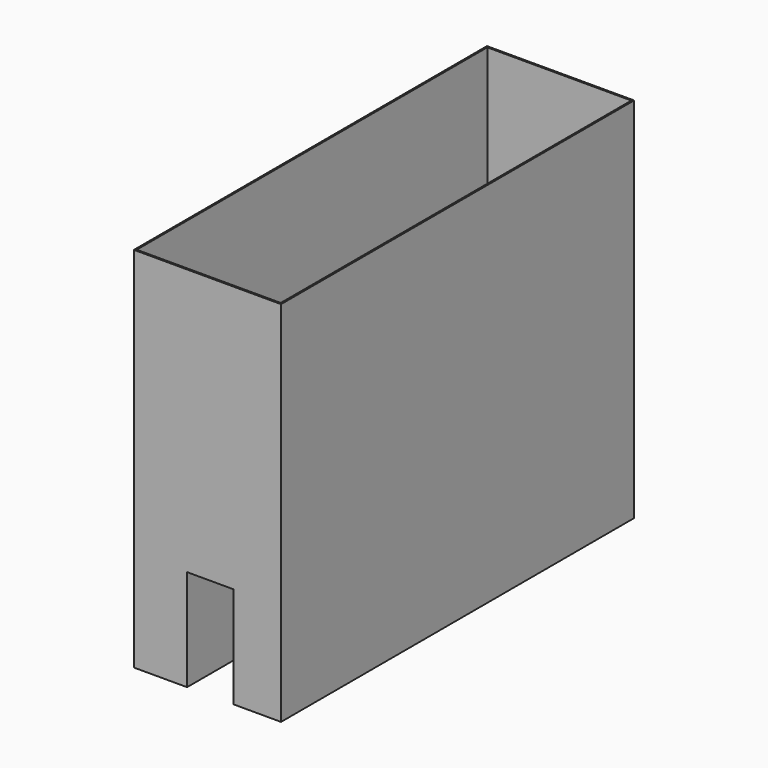
from build123d import *

# Parameters (mm, degrees)
F1_DEPTH = 7315.2
F2_W     = 25.4
F2_H     = 7264.4
F3_DEPTH = 3657.6
F4_W     = 1130.968094
F4_H     = 1648.326397
F5_DEPTH = 1574.8
F7_DEPTH = 254
F9_DEPTH = 254


with BuildPart() as f1:
    # F0 (on Front) → F1 (new body)
    with BuildSketch(Plane.XZ):
        Polygon((2360.131245, 2438.4), (-78.268755, 2438.4), (-78.268755, 0), (802.604079, 0), (802.604079, 1679.426908), (1571.302772, 1679.426908), (1571.302772, 0), (2360.131245, 0), align=None)
    extrude(amount=F1_DEPTH)

    # F2 (on face) → F3 (join)
    with BuildSketch(Plane.XY.offset(2438.4)):
        Polygon((-78.268755, -7289.8), (-78.268755, -7315.2), (2360.131245, -7315.2), (2360.131245, -7289.8), (2334.731245, -7289.8), (-52.868755, -7289.8), align=None)
        Polygon((-78.268755, 0), (-78.268755, -7289.8), (-52.868755, -7289.8), (-52.868755, -25.4), (-52.868755, 0), align=None)
        with Locations((2347.431245, -3657.6)):
            Rectangle(F2_W, F2_H)
        Polygon((2334.731245, -25.4), (2360.131245, -25.4), (2360.131245, 0), (-52.868755, 0), (-52.868755, -25.4), align=None)
    extrude(amount=F3_DEPTH)

    # F4 (on face) → F5 (cut)
    with BuildSketch(Plane(origin=(-78.268755, 0, 0), x_dir=(0, -1, 0), z_dir=(-1, 0, 0))):
        with Locations((5225.715637, 3164.436101)):
            Rectangle(F4_W, F4_H)
    extrude(amount=-F5_DEPTH, mode=Mode.SUBTRACT)

    # F6 (on face) → F7 (join)
    with BuildSketch(Plane.XZ.offset(25.4)):
        Polygon((458.727852, 2438.4), (458.727852, 3251.2), (1677.927852, 3251.2), (1677.927852, 2438.4), (1858.340859, 2438.4), (1858.340859, 3463.632425), (306.10472, 3463.632425), (306.10472, 2438.4), align=None)
    extrude(amount=F7_DEPTH)

    # F8 (on face) → F9 (join)
    with BuildSketch(Plane(origin=(0, -7289.8, 0), x_dir=(-1, 0, 0), z_dir=(0, 1, 0))):
        Polygon((-1664.304972, 2438.4), (-1664.304972, 3251.2), (-445.104972, 3251.2), (-445.104972, 2438.4), (-304.736584, 2438.4), (-304.736584, 3454.4), (-1856.810093, 3454.4), (-1856.810093, 2438.4), align=None)
    extrude(amount=F9_DEPTH)


solid = f1.part
